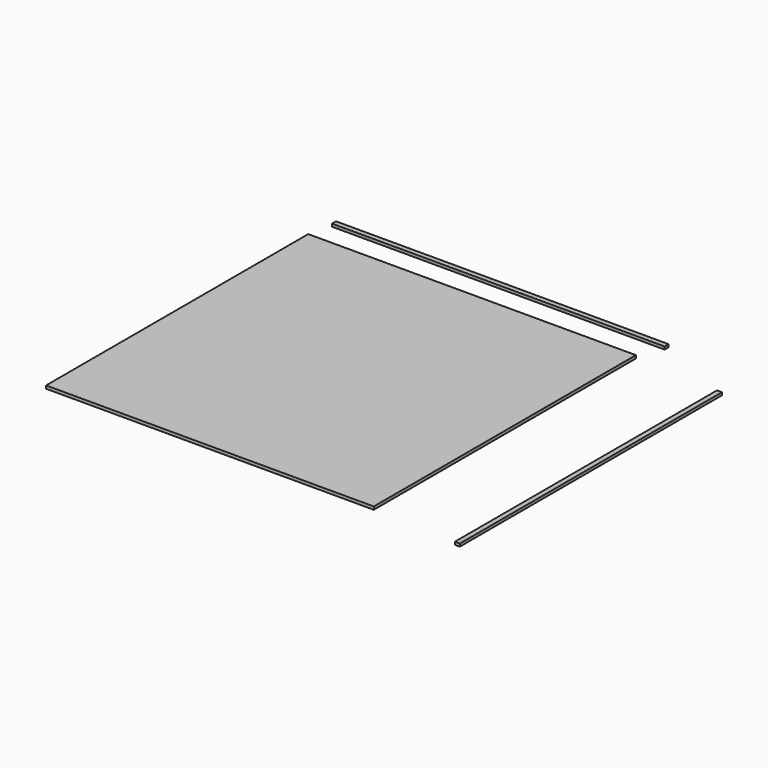
from build123d import *

# Parameters (mm, degrees)
F0_W     = 330
F0_H     = 330
F1_DEPTH = 3
F2_W     = 5
F2_H     = 330
F3_DEPTH = 2.8
F4_W     = 335
F4_H     = 5
F5_DEPTH = 2.8


with BuildPart() as f1:
    # F0 (on Top) → F1 (new body)
    with BuildSketch(Plane.XY):
        Rectangle(F0_W, F0_H)
    extrude(amount=F1_DEPTH)


with BuildPart() as f3:
    # F2 (on Top) → F3 (new body)
    with BuildSketch(Plane.XY):
        with Locations((254.553556, -6.776989)):
            Rectangle(F2_W, F2_H)
    extrude(amount=F3_DEPTH)


with BuildPart() as f5:
    # F4 (on Top) → F5 (new body)
    with BuildSketch(Plane.XY):
        with Locations((5.720064, 193.451923)):
            Rectangle(F4_W, F4_H)
    extrude(amount=F5_DEPTH)


solid = Compound([f1.part, f3.part, f5.part])
